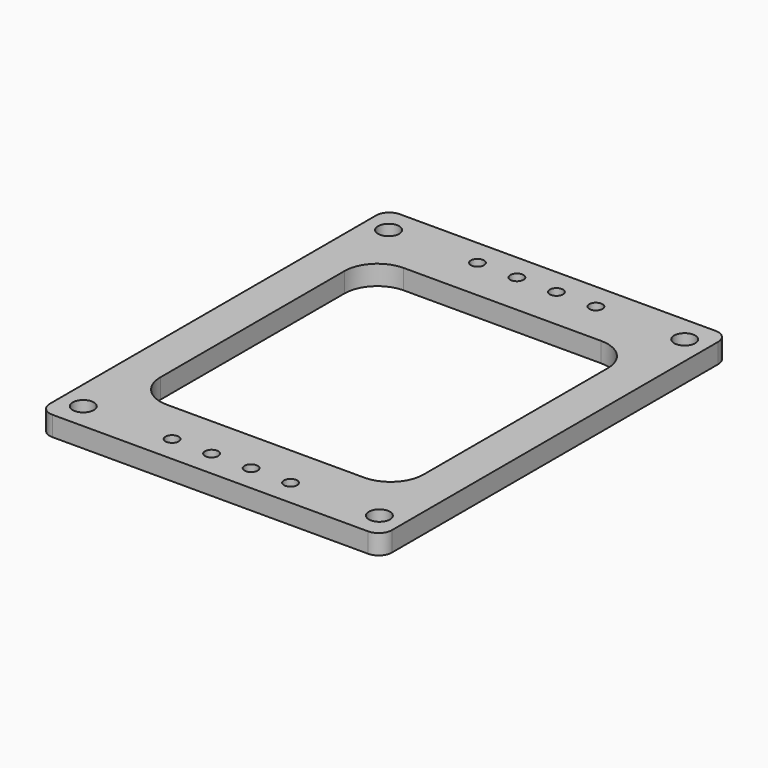
from build123d import *

# Parameters (mm, degrees)
SKETCH_W     = 52
SKETCH_H     = 66
SKETCH_R     = 1.6
SKETCH_R_2   = 1
PAD_DEPTH    = 3
FILLET_R     = 2
SKETCH001_W  = 40
SKETCH001_H  = 45
POCKET_DEPTH = 5
FILLET001_R  = 5


with BuildPart() as part:
    # Sketch → Pad (new body)
    with BuildSketch(Plane.XY):
        Rectangle(SKETCH_W, SKETCH_H)
        with Locations((-22.5, 29)):
            Circle(SKETCH_R, mode=Mode.SUBTRACT)
        with Locations((-9, 29)):
            Circle(SKETCH_R_2, mode=Mode.SUBTRACT)
        with Locations((-3, 29)):
            Circle(SKETCH_R_2, mode=Mode.SUBTRACT)
        with Locations((3, 29)):
            Circle(SKETCH_R_2, mode=Mode.SUBTRACT)
        with Locations((9, 29)):
            Circle(SKETCH_R_2, mode=Mode.SUBTRACT)
        with Locations((22.5, 29)):
            Circle(SKETCH_R, mode=Mode.SUBTRACT)
        with Locations((-22.5, -29)):
            Circle(SKETCH_R, mode=Mode.SUBTRACT)
        with Locations((-9, -29)):
            Circle(SKETCH_R_2, mode=Mode.SUBTRACT)
        with Locations((-3, -29)):
            Circle(SKETCH_R_2, mode=Mode.SUBTRACT)
        with Locations((3, -29)):
            Circle(SKETCH_R_2, mode=Mode.SUBTRACT)
        with Locations((9, -29)):
            Circle(SKETCH_R_2, mode=Mode.SUBTRACT)
        with Locations((22.5, -29)):
            Circle(SKETCH_R, mode=Mode.SUBTRACT)
    extrude(amount=PAD_DEPTH)

    # Fillet
    fillet_edges = [part.edges().sort_by_distance(p)[0] for p in [
        (26, -33, 1.5),
        (-26, -33, 1.5),
        (26, 33, 1.5),
        (-26, 33, 1.5),
    ]]
    fillet(fillet_edges, radius=FILLET_R)

    # Sketch001 (on Face5 of Fillet) → Pocket (cut)
    with BuildSketch(Plane.XY.offset(3)):
        Rectangle(SKETCH001_W, SKETCH001_H)
    extrude(amount=-POCKET_DEPTH, mode=Mode.SUBTRACT)

    # Fillet001
    fillet001_edges = [part.edges().sort_by_distance(p)[0] for p in [
        (20, -22.5, 1.5),
        (-20, 22.5, 1.5),
        (20, 22.5, 1.5),
        (-20, -22.5, 1.5),
    ]]
    fillet(fillet001_edges, radius=FILLET001_R)


solid = part.part
